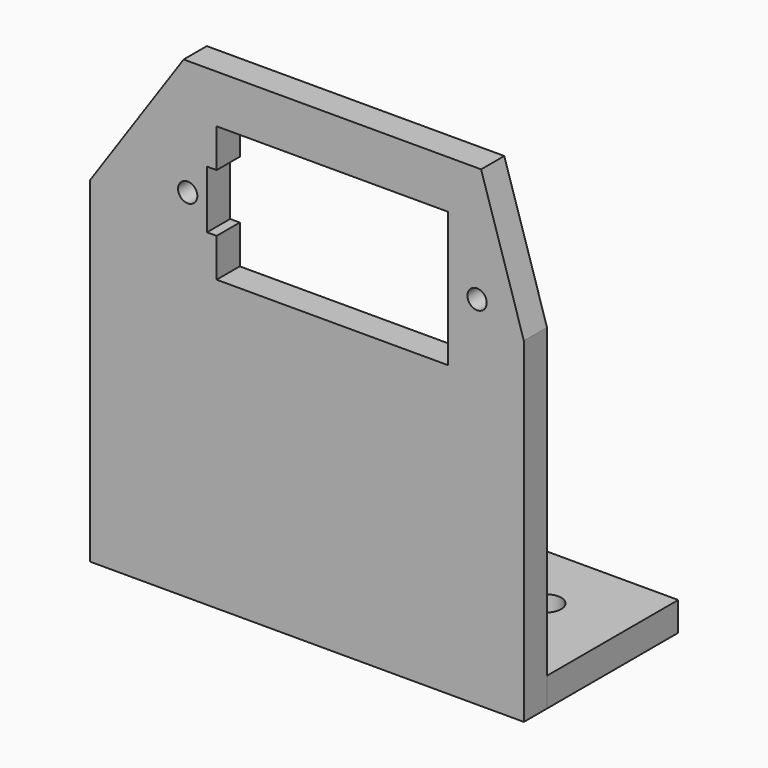
from build123d import *

# Parameters (mm, degrees)
F0_R     = 1
F1_DEPTH = 3
F2_W     = 45
F2_H     = 17
F2_R     = 1.698824
F2_R_2   = 1.610418
F3_DEPTH = 3


with BuildPart() as f1:
    # F0 (on Front) → F1 (new body)
    with BuildSketch(Plane.XZ):
        Polygon((-64.45872, -27.312139), (-64.45872, -62.091763), (-19.45872, -62.091763), (-19.45872, -60.003541), (-19.45872, -27.312139), (-23.88858, -13.103288), (-54.728993, -13.103288), align=None)
        with Locations((-54.308786, -25.101645)):
            Circle(F0_R, mode=Mode.SUBTRACT)
        Polygon((-51.308786, -22.091763), (-51.308786, -18.091763), (-27.308786, -18.091763), (-27.308786, -32.091763), (-51.308786, -32.091763), (-51.308786, -28.091763), (-52.308786, -28.091763), (-52.308786, -22.091763), align=None, mode=Mode.SUBTRACT)
        with Locations((-24.308786, -25.101645)):
            Circle(F0_R, mode=Mode.SUBTRACT)
    extrude(amount=F1_DEPTH)


with BuildPart() as f3:
    # F2 (on face) → F3 (new body)
    with BuildSketch(Plane(origin=(0, 0, -62.091763), x_dir=(1, 0, 0), z_dir=(0, 0, -1))):
        with Locations((-41.95872, -8.5)):
            Rectangle(F2_W, F2_H)
        with Locations((-56.45872, -9.826623)):
            Circle(F2_R, mode=Mode.SUBTRACT)
        with Locations((-27.45872, -9.826623)):
            Circle(F2_R_2, mode=Mode.SUBTRACT)
    extrude(amount=-F3_DEPTH)


solid = Compound([f1.part, f3.part])
